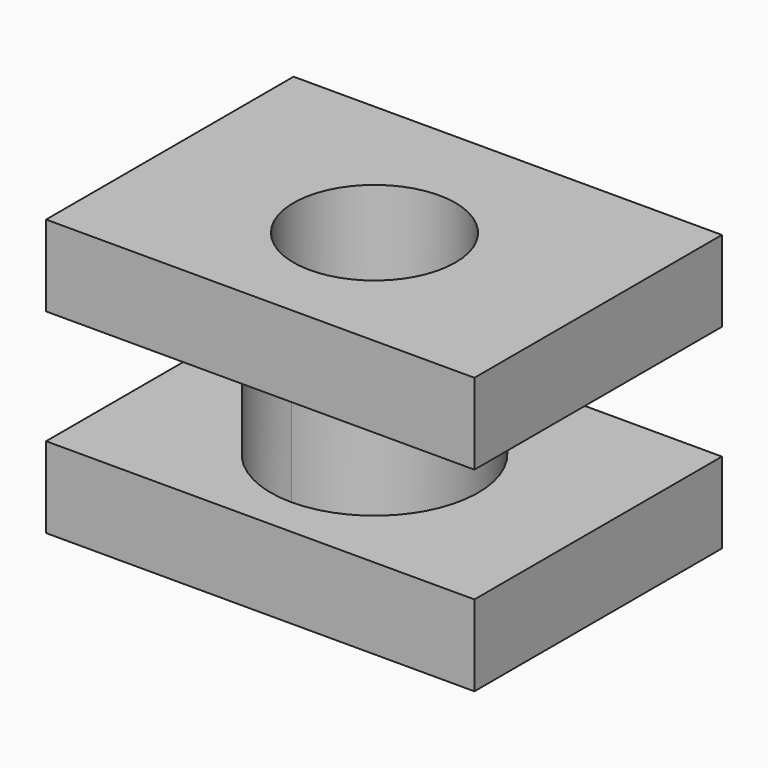
from build123d import *

# Parameters (mm, degrees)
F0_R     = 43.18
F1_DEPTH = 147.32
F2_DEPTH = 104.14
F3_DEPTH = 43.18


with BuildPart() as f1:
    # F0 (on Top) → F1 (new body)
    with BuildSketch(Plane.XY):
        with BuildLine():
            Line((-114.3, 82.55), (-114.3, -82.55))
            Line((-114.3, -82.55), (114.3, -82.55))
            Line((114.3, -82.55), (114.3, 82.55))
            Line((114.3, 82.55), (33.02, 82.55))
            Line((33.02, 82.55), (33.02, 38.099274))
            ThreePointArc((33.02, 38.099274), (52.570446, -23.739841), (0, -61.722))
            ThreePointArc((0, -61.722), (-52.570446, -23.739841), (-33.02, 38.099274))
            Line((-33.02, 38.099274), (-33.02, 82.55))
            Line((-33.02, 82.55), (-114.3, 82.55))
        make_face()
        with BuildLine():
            Line((0, 82.55), (-33.02, 82.55))
            Line((-33.02, 82.55), (-33.02, 38.099274))
            ThreePointArc((-33.02, 38.099274), (-52.570446, -23.739841), (0, -61.722))
            ThreePointArc((0, -61.722), (52.570446, -23.739841), (33.02, 38.099274))
            Line((33.02, 38.099274), (33.02, 82.55))
            Line((33.02, 82.55), (0, 82.55))
        make_face()
        with Locations((0, -6.35)):
            Circle(F0_R, mode=Mode.SUBTRACT)
    extrude(amount=F1_DEPTH)

    # F0 (on Top) → F2 (cut)
    with BuildSketch(Plane.XY):
        with BuildLine():
            Line((-114.3, 82.55), (-114.3, -82.55))
            Line((-114.3, -82.55), (114.3, -82.55))
            Line((114.3, -82.55), (114.3, 82.55))
            Line((114.3, 82.55), (33.02, 82.55))
            Line((33.02, 82.55), (33.02, 38.099274))
            ThreePointArc((33.02, 38.099274), (52.570446, -23.739841), (0, -61.722))
            ThreePointArc((0, -61.722), (-52.570446, -23.739841), (-33.02, 38.099274))
            Line((-33.02, 38.099274), (-33.02, 82.55))
            Line((-33.02, 82.55), (-114.3, 82.55))
        make_face()
    extrude(amount=F2_DEPTH, mode=Mode.SUBTRACT)

    # F0 (on Top) → F3 (join)
    with BuildSketch(Plane.XY):
        with BuildLine():
            Line((-114.3, 82.55), (-114.3, -82.55))
            Line((-114.3, -82.55), (114.3, -82.55))
            Line((114.3, -82.55), (114.3, 82.55))
            Line((114.3, 82.55), (33.02, 82.55))
            Line((33.02, 82.55), (33.02, 38.099274))
            ThreePointArc((33.02, 38.099274), (52.570446, -23.739841), (0, -61.722))
            ThreePointArc((0, -61.722), (-52.570446, -23.739841), (-33.02, 38.099274))
            Line((-33.02, 38.099274), (-33.02, 82.55))
            Line((-33.02, 82.55), (-114.3, 82.55))
        make_face()
    extrude(amount=F3_DEPTH)


solid = f1.part
